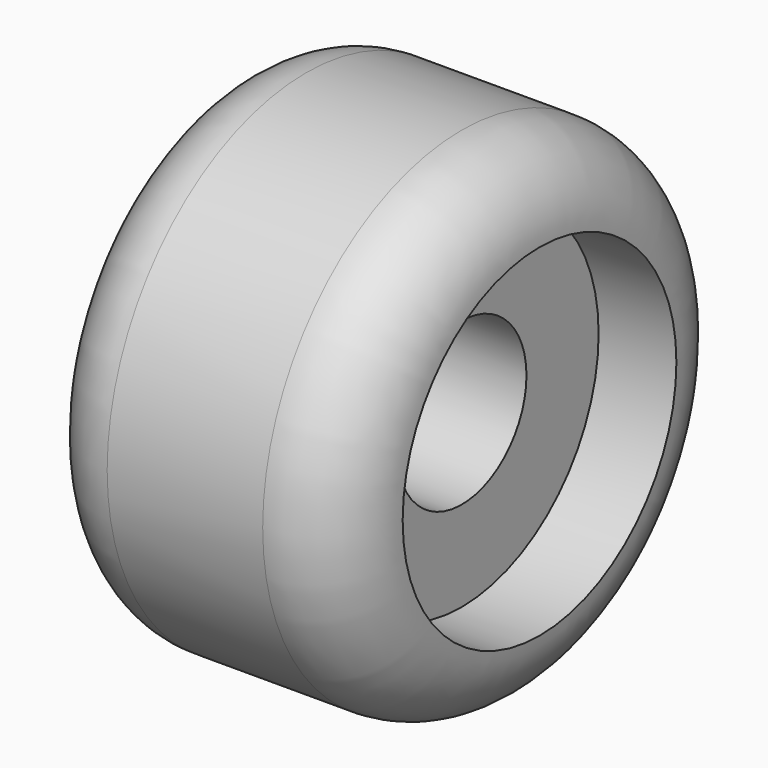
from build123d import *

# Parameters (mm, degrees)
F0_R     = 5.08
F0_R_2   = 1.651
F1_DEPTH = 6.35
F2_R     = 1.5875
F3_R     = 3.4925
F3_R_2   = 1.651
F4_DEPTH = 1.5875


with BuildPart() as f1:
    # F0 (on Right) → F1 (new body)
    with BuildSketch(Plane.YZ):
        Circle(F0_R)
        Circle(F0_R_2, mode=Mode.SUBTRACT)
    extrude(amount=F1_DEPTH)

    # F2
    f2_edges = [f1.edges().sort_by_distance(p)[0] for p in [
        (6.35, -5.08, 0),
        (0, -5.08, 0),
    ]]
    fillet(f2_edges, radius=F2_R)

    # F3 (on face) → F4 (cut)
    with BuildSketch(Plane.YZ.offset(6.35)):
        Circle(F3_R)
        Circle(F3_R_2, mode=Mode.SUBTRACT)
    extrude(amount=-F4_DEPTH, mode=Mode.SUBTRACT)


solid = f1.part
